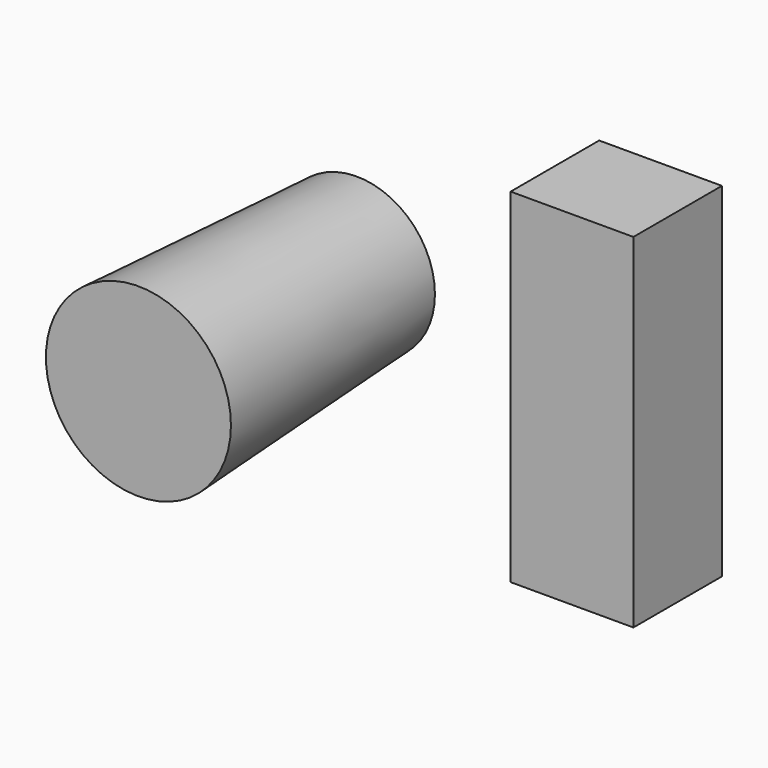
from build123d import *

# Parameters (mm, degrees)
F0_R     = 23.8939131915
F1_DEPTH = 83.3524763584
F1_TAPER = -3
F3_W     = 37.5044234097
F3_H     = 105.0393283367
F4_DEPTH = 33.8018536568


with BuildPart() as f1:
    # F0 (on Front) → F1 (new body)
    with BuildSketch(Plane.XZ):
        with Locations((-41.2444472313, 47.3936349154)):
            Circle(F0_R)
    extrude(amount=F1_DEPTH, taper=F1_TAPER)


with BuildPart() as f4:
    # F3 (on face) → F4 (new body)
    with BuildSketch(Plane.XZ):
        with Locations((51.5696834773, 52.5196641684)):
            Rectangle(F3_W, F3_H)
    extrude(amount=F4_DEPTH)


solid = Compound([f1.part, f4.part])
